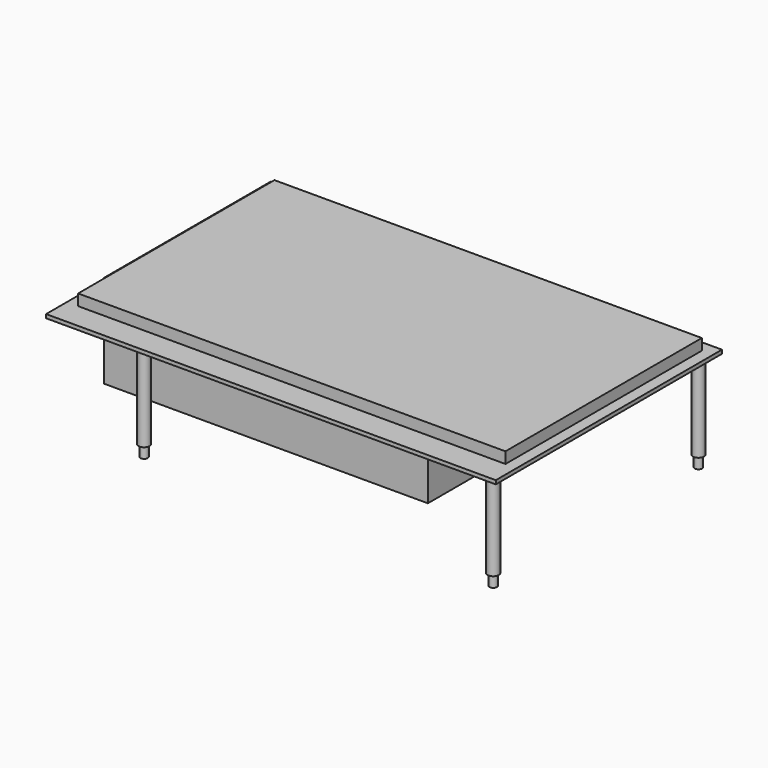
from build123d import *

# Parameters (mm, degrees)
F0_W      = 120.75
F0_H      = 75.9
F1_DEPTH  = 1
F2_W      = 114.75
F2_H      = 65.9
F3_DEPTH  = 3
F4_W      = 87
F4_H      = 56
F5_DEPTH  = 25
F6_W      = 18
F6_H      = 15
F7_DEPTH  = 12.5
F8_R      = 1.5
F9_DEPTH  = 23.5
F10_R     = 1
F11_DEPTH = 3


with BuildPart() as f1:
    # F0 (on Top) → F1 (new body)
    with BuildSketch(Plane.XY):
        with Locations((60.375, 37.95)):
            Rectangle(F0_W, F0_H)
    extrude(amount=F1_DEPTH)

    # F2 (on face) → F3 (join)
    with BuildSketch(Plane.XY.offset(1)):
        with Locations((60.375, 39.95)):
            Rectangle(F2_W, F2_H)
    extrude(amount=F3_DEPTH)

    # F4 (on face) → F5 (join)
    with BuildSketch(Plane(origin=(0, 0, 0), x_dir=(1, 0, 0), z_dir=(0, 0, -1))):
        with Locations((41.5, -49.9)):
            Rectangle(F4_W, F4_H)
    extrude(amount=F5_DEPTH)

    # F6 (on face) → F7 (join)
    with BuildSketch(Plane(origin=(0, 77.9, 0), x_dir=(-1, 0, 0), z_dir=(0, 1, 0))):
        with Locations((-51, -17)):
            Rectangle(F6_W, F6_H)
    extrude(amount=F7_DEPTH)

    # F8 (on face) → F9 (join)
    with BuildSketch(Plane(origin=(0, 0, 0), x_dir=(1, 0, 0), z_dir=(0, 0, -1))):
        with Locations((23.5, -3.5)):
            Circle(F8_R)
        with Locations((117.25, -3.5)):
            Circle(F8_R)
        with Locations((117.25, -72.4)):
            Circle(F8_R)
    extrude(amount=F9_DEPTH)

    # F10 (on face) → F11 (join)
    with BuildSketch(Plane(origin=(0, 0, -23.5), x_dir=(1, 0, 0), z_dir=(0, 0, -1))):
        with Locations((23.5, -3.5)):
            Circle(F10_R)
        with Locations((117.25, -3.5)):
            Circle(F10_R)
        with Locations((117.25, -72.4)):
            Circle(F10_R)
    extrude(amount=F11_DEPTH)


solid = f1.part
